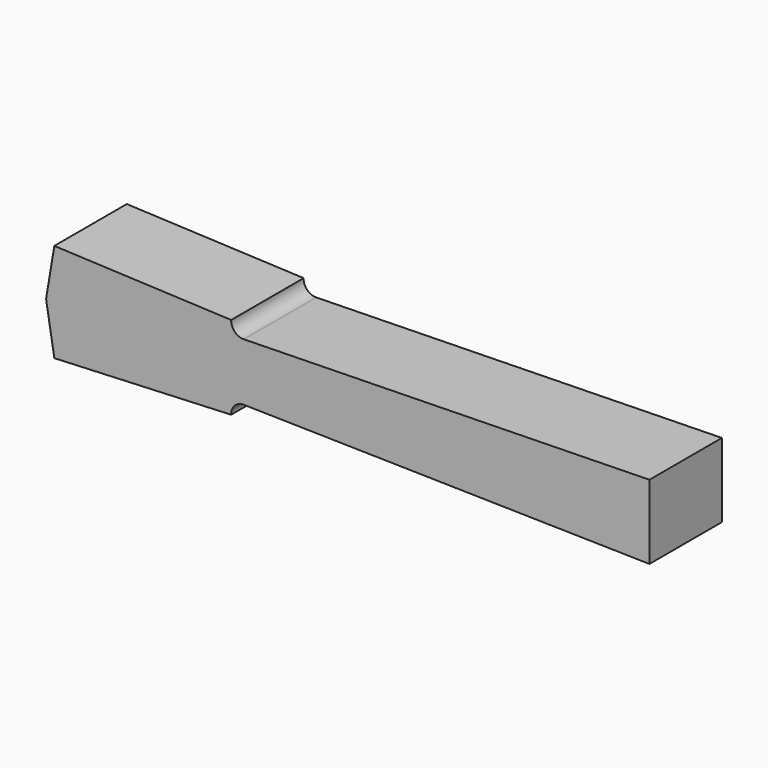
from build123d import *

# Parameters (mm, degrees)
F1_DEPTH = 69.85


with BuildPart() as f1:
    # F0 (on Front) → F1 (new body)
    with BuildSketch(Plane.XZ):
        with BuildLine():
            Line((-312.7248, -22.225), (0, -28.575))
            Line((0, -28.575), (0, 28.575))
            Line((0, 28.575), (-312.7248, 22.225))
            ThreePointArc((-312.7248, 22.225), (-319.732498, 25.092035), (-322.436157, 32.164373))
            Line((-322.436157, 32.164373), (-458.7748, 38.1))
            Line((-458.7748, 38.1), (-465.1248, 0))
            Line((-465.1248, 0), (-458.7748, -38.1))
            Line((-458.7748, -38.1), (-322.436157, -32.172233))
            ThreePointArc((-322.436157, -32.172233), (-319.735367, -25.094826), (-312.7248, -22.225))
        make_face()
    extrude(amount=F1_DEPTH)


solid = f1.part
